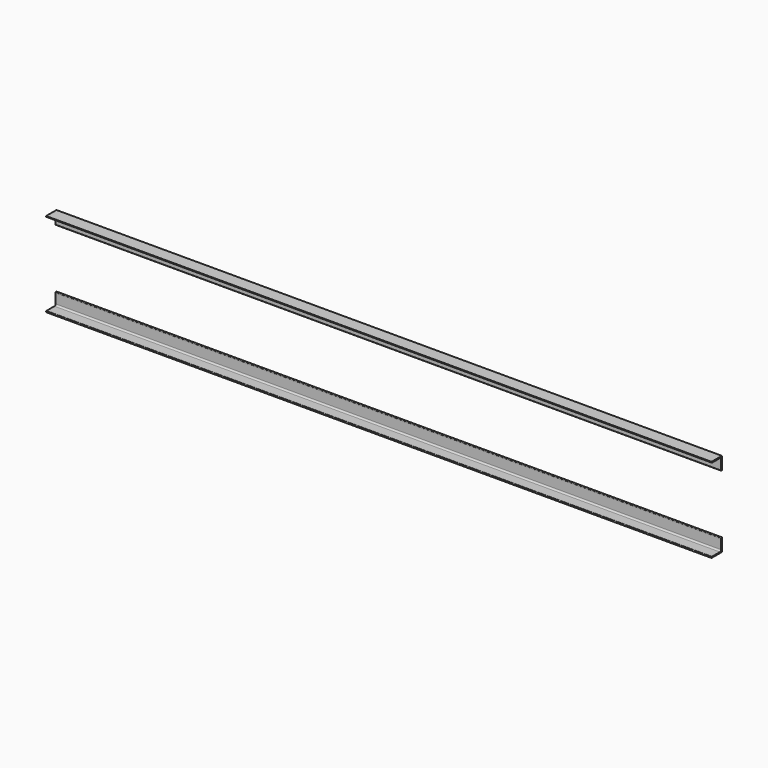
from build123d import *

# Parameters (mm, degrees)
EXTRUDE002_DEPTH = 3850
EXTRUDE003_DEPTH = 3850


with BuildPart() as extrude002:
    # AngleSteel → Extrude002 (new body)
    with BuildSketch(Plane(origin=(0, 49.38985, 34.98985), x_dir=(0, 1, 0), z_dir=(-1, 0, 0))):
        with BuildLine():
            Line((-20.58985, 20.58985), (-20.58985, -54.41015))
            Line((-20.58985, -54.41015), (-18.58985, -54.41015))
            ThreePointArc((-18.58985, -54.41015), (-15.761423, -53.238577), (-14.58985, -50.41015))
            Line((-14.58985, -50.41015), (-14.58985, 6.08985))
            ThreePointArc((-14.58985, 6.08985), (-12.100258, 12.100258), (-6.08985, 14.58985))
            Line((-6.08985, 14.58985), (50.41015, 14.58985))
            ThreePointArc((50.41015, 14.58985), (53.238577, 15.761423), (54.41015, 18.58985))
            Line((54.41015, 18.58985), (54.41015, 20.58985))
            Line((54.41015, 20.58985), (-20.58985, 20.58985))
        make_face()
    extrude(amount=-EXTRUDE002_DEPTH)


with BuildPart() as fusion:
    # Mirror → Extrude003 (new body)
    with BuildSketch(Plane(origin=(0, 49.38985, 483.802834), x_dir=(0, -1, 0), z_dir=(1, 0, 0))):
        with BuildLine():
            Line((20.58985, -20.58985), (20.58985, 54.41015))
            Line((20.58985, 54.41015), (18.58985, 54.41015))
            ThreePointArc((18.58985, 54.41015), (15.761423, 53.238577), (14.58985, 50.41015))
            Line((14.58985, 50.41015), (14.58985, -6.08985))
            ThreePointArc((14.58985, -6.08985), (12.100258, -12.100258), (6.08985, -14.58985))
            Line((6.08985, -14.58985), (-50.41015, -14.58985))
            ThreePointArc((-50.41015, -14.58985), (-53.238577, -15.761423), (-54.41015, -18.58985))
            Line((-54.41015, -18.58985), (-54.41015, -20.58985))
            Line((-54.41015, -20.58985), (20.58985, -20.58985))
        make_face()
    extrude(amount=EXTRUDE003_DEPTH)

    # Fusion: union Extrude002
    add(extrude002.part)


with BuildPart() as fusion_mirrored:
    # Mirror001: instance of Fusion
    add(fusion.part.mirror(Plane(origin=(0, 28.796342, 514.396342), x_dir=(-1, 0, 0), z_dir=(0, -1, 0))))


with BuildPart() as fusion_mirrored_1:
    # Mirror001 placement: moved
    add(fusion_mirrored.part.moved(Location((0, -6, 0))))


solid = fusion_mirrored_1.part
